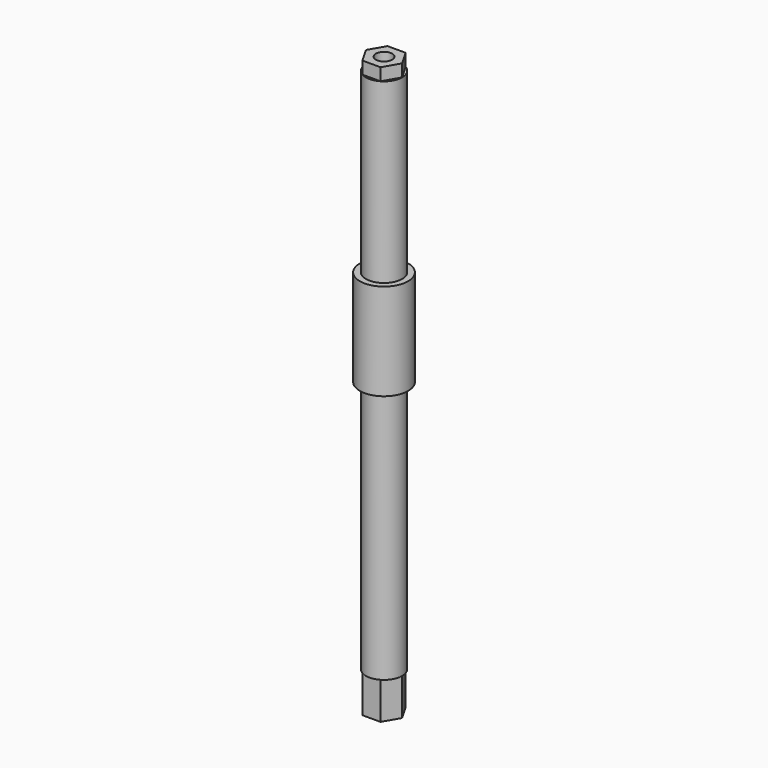
from build123d import *

# Parameters (mm, degrees)
F0_R          = 4.7625
F0_R_2        = 2.15265
F1_DEPTH      = 138.557
F3_R          = 2.15265
F4_DEPTH      = 3.2512
F4_DEPTH_BACK = 148.3106
F5_DEPTH      = 138.557
F7_R          = 6.35
F7_R_2        = 2.15265
F8_DEPTH      = 25.4


with BuildPart() as f1:
    # F0 (on Top) → F1 (new body)
    with BuildSketch(Plane.XY):
        Circle(F0_R)
        Circle(F0_R_2, mode=Mode.SUBTRACT)
    extrude(amount=F1_DEPTH)

    # F3 (on face) → F4 (join, two sides)
    with BuildSketch(Plane.XY.offset(138.557)) as f4_sk:
        Polygon((4.7625, 0), (2.38125, 4.1244459855), (-2.38125, 4.1244459855), (-4.7625, 0), (-2.38125, -4.1244459855), (2.38125, -4.1244459855), align=None)
        Circle(F3_R, mode=Mode.SUBTRACT)
    extrude(amount=F4_DEPTH)
    extrude(f4_sk.sketch, amount=-F4_DEPTH_BACK)

    # F5 (cut, through all): a face of the model
    f5_faces = [f1.faces().sort_by_distance(p)[0] for p in [
        (-3.7942237484, 2.1905961025, 138.557),
    ]]
    extrude(f5_faces, amount=-F5_DEPTH, mode=Mode.SUBTRACT)

    # F7 (on offset) → F8 (join)
    with BuildSketch(Plane.XY.offset(91.8845)):
        Circle(F7_R)
        Circle(F7_R_2, mode=Mode.SUBTRACT)
    extrude(amount=-F8_DEPTH)


solid = f1.part
